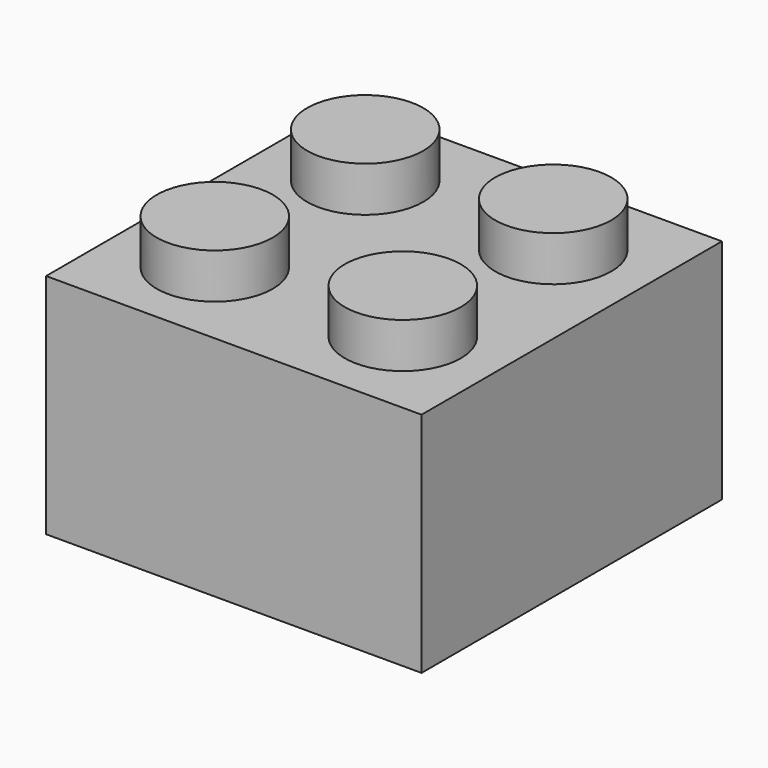
from build123d import *

# Parameters (mm, degrees)
F0_W     = 15.7734
F0_H     = 15.7734
F1_DEPTH = 9.5504
F2_R     = 2.4384
F3_DEPTH = 1.8923
F4_W     = 13.4366
F4_H     = 13.4366
F5_DEPTH = 8.128
F6_R     = 3.24485
F6_R_2   = 2.85115
F7_DEPTH = 8.128


with BuildPart() as f1:
    # F0 (on Top) → F1 (new body)
    with BuildSketch(Plane.XY):
        Rectangle(F0_W, F0_H)
    extrude(amount=F1_DEPTH)

    # F2 (on face) → F3 (join)
    with BuildSketch(Plane.XY.offset(9.5504)):
        with Locations((3.9497, 3.9497)):
            Circle(F2_R)
        with Locations((-3.9497, -3.9497)):
            Circle(F2_R)
        with Locations((3.9497, -3.9497)):
            Circle(F2_R)
        with Locations((-3.9497, 3.9497)):
            Circle(F2_R)
    extrude(amount=F3_DEPTH)

    # F4 (on face) → F5 (cut)
    with BuildSketch(Plane(origin=(0, 0, 0), x_dir=(1, 0, 0), z_dir=(0, 0, -1))):
        Rectangle(F4_W, F4_H)
    extrude(amount=-F5_DEPTH, mode=Mode.SUBTRACT)

    # F6 (on face) → F7 (join)
    with BuildSketch(Plane(origin=(0, 0, 0), x_dir=(1, 0, 0), z_dir=(0, 0, -1))):
        Circle(F6_R)
        Circle(F6_R_2, mode=Mode.SUBTRACT)
    extrude(amount=-F7_DEPTH)


solid = f1.part
